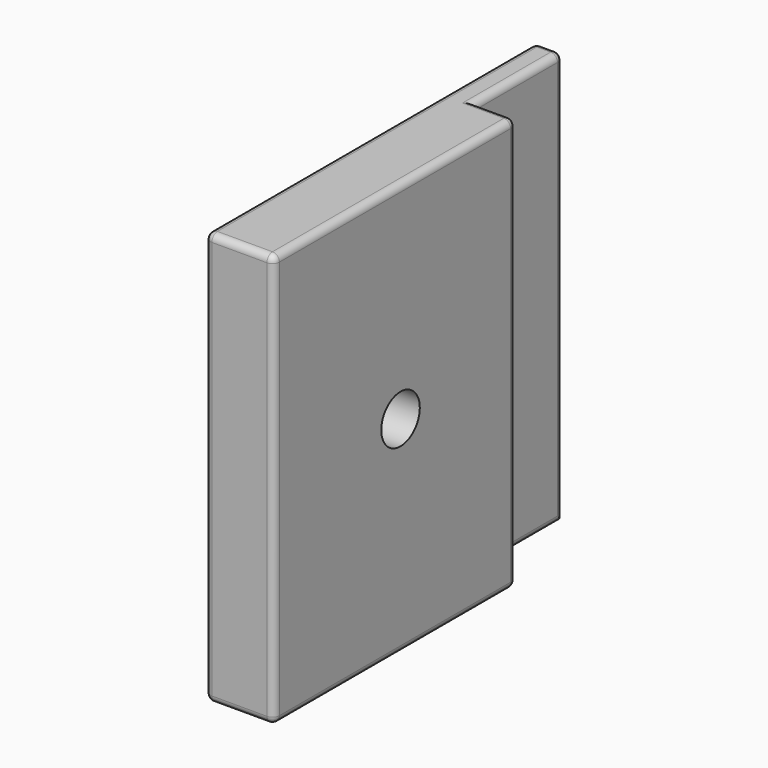
from build123d import *

# Parameters (mm, degrees)
F1_DEPTH       = 30
F2_R           = 0.5
F4_D           = 3.5
F4_CSINK_D     = 6.8
F4_CSINK_ANGLE = 90


with BuildPart() as f1:
    # F0 (on Top) → F1 (new body)
    with BuildSketch(Plane.XY):
        Polygon((0, 30), (0, 0), (5, 0), (5, 22), (2, 22), (2, 30), align=None)
    extrude(amount=F1_DEPTH)

    # F2
    f2_edges = [f1.edges().sort_by_distance(p)[0] for p in [
        (2, 30, 15),
        (2, 26, 0),
        (3.5, 22, 0),
        (5, 11, 0),
        (5, 0, 15),
        (2, 26, 30),
        (5, 22, 15),
        (5, 11, 30),
        (3.5, 22, 30),
        (1, 30, 30),
        (2.5, 0, 30),
        (2.5, 0, 0),
        (0, 15, 0),
        (0, 15, 30),
        (0, 30, 15),
        (0, 0, 15),
    ]]
    fillet(f2_edges, radius=F2_R)

    # F4 (through all)
    with Locations(Plane(origin=(0, 0, 0), x_dir=(0, -1, 0), z_dir=(-1, 0, 0))):
        with Locations((-11.5, 15)):
            CounterSinkHole(F4_D / 2, F4_CSINK_D / 2, counter_sink_angle=F4_CSINK_ANGLE)


solid = f1.part
